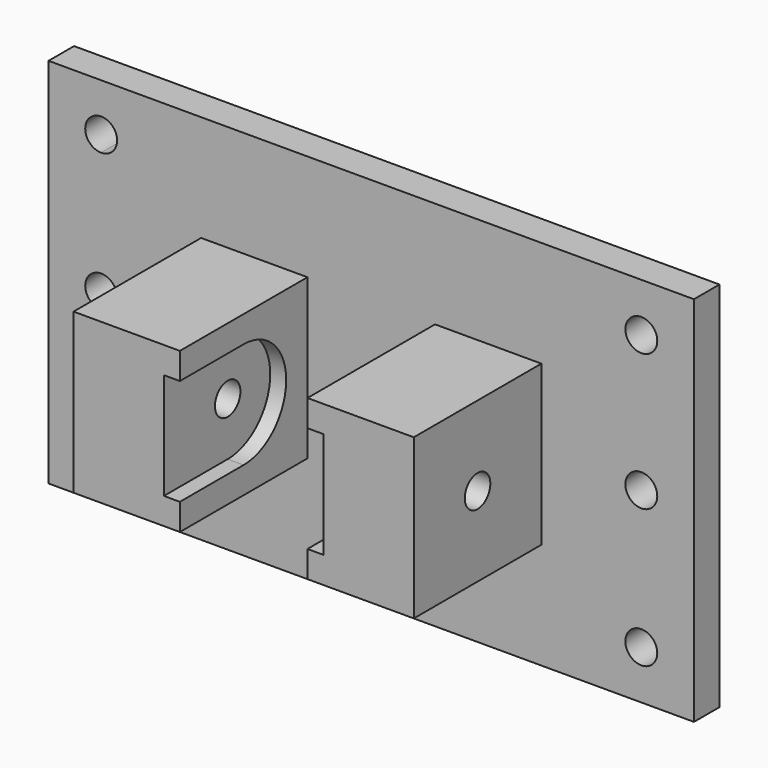
from build123d import *

# Parameters (mm, degrees)
F0_W      = 60
F0_H      = 30
F1_DEPTH  = 1.5
F2_W      = 10
F2_H      = 15
F3_DEPTH  = 15
F2_R      = 1.5
F4_DEPTH  = 3
F5_R      = 5
F5_R_2    = 1.5
F6_DEPTH  = 7.5
F7_DEPTH  = 30
F9_DEPTH  = 7.5
F10_W     = 0.3519237886
F10_H     = 30
F10_H_2   = 2.075
F10_H_3   = 27.925
F11_DEPTH = 3
F12_W     = 60.7038475773
F12_H     = 2.5
F13_DEPTH = 3


with BuildPart() as f1:
    # F0 (on Front) → F1 (new body, symmetric)
    with BuildSketch(Plane.XZ):
        Rectangle(F0_W, F0_H)
    extrude(amount=F1_DEPTH, both=True)

    # F2 (on face) → F3 (join)
    with BuildSketch(Plane.XZ.offset(1.5)):
        with Locations((-11, 0)):
            Rectangle(F2_W, F2_H)
        with Locations((11, 0)):
            Rectangle(F2_W, F2_H)
    extrude(amount=F3_DEPTH)

    # F2 (on face) → F4 (cut)
    with BuildSketch(Plane.XZ.offset(1.5)):
        with BuildLine():
            Line((-25.4019237886, 13), (-25.4019237886, 14.5))
            ThreePointArc((-25.4019237886, 14.5), (-26.9019237886, 13), (-25.4019237886, 11.5))
            Line((-25.4019237886, 11.5), (-25.4019237886, 12.925))
            Line((-25.4019237886, 12.925), (-25.4019237886, 13))
        make_face()
        with BuildLine():
            ThreePointArc((-23.9019237886, 13), (-24.3412636169, 14.0606601718), (-25.4019237886, 14.5))
            Line((-25.4019237886, 14.5), (-25.4019237886, 13))
            Line((-25.4019237886, 13), (-25.4019237886, 12.925))
            Line((-25.4019237886, 12.925), (-25.4019237886, 11.5))
            ThreePointArc((-25.4019237886, 11.5), (-24.3412636169, 11.9393398282), (-23.9019237886, 13))
        make_face()
        with BuildLine():
            ThreePointArc((-23.9019237886, -12.925), (-26.4625839604, -11.8643398282), (-25.4019237886, -14.425))
            ThreePointArc((-25.4019237886, -14.425), (-24.3412636169, -13.9856601718), (-23.9019237886, -12.925))
        make_face()
        with Locations((25.4019237886, 12.925)):
            Circle(F2_R)
        with Locations((25.4019237886, -12.925)):
            Circle(F2_R)
        with BuildLine():
            ThreePointArc((-23.9019237886, 0), (-24.3412636169, 1.0606601718), (-25.4019237886, 1.5))
            ThreePointArc((-25.4019237886, 1.5), (-26.4625839604, -1.0606601718), (-23.9019237886, 0))
        make_face()
        with Locations((25.4019237886, 0.075)):
            Circle(F2_R)
    extrude(amount=-F4_DEPTH, mode=Mode.SUBTRACT)

    # F5 (on Right) → F6 (cut, symmetric)
    with BuildSketch(Plane.YZ):
        with Locations((-9, 0)):
            Circle(F5_R)
        with Locations((-9, 0)):
            Circle(F5_R_2, mode=Mode.SUBTRACT)
    extrude(amount=F6_DEPTH, both=True, mode=Mode.SUBTRACT)

    # F7 (cut, symmetric): a face of the model
    f7_faces = [f1.faces().sort_by_distance(p)[0] for p in [
        (-6, -9, 0),
    ]]
    extrude(f7_faces, amount=F7_DEPTH, both=True, mode=Mode.SUBTRACT)

    # F8 (on Right) → F9 (cut, symmetric)
    with BuildSketch(Plane.YZ):
        Polygon((-9, 5), (-16.5, 5), (-16.5, -5), (-9, -5), (-9, 0), align=None)
    extrude(amount=F9_DEPTH, both=True, mode=Mode.SUBTRACT)

    # F10 (on face) → F11 (join)
    with BuildSketch(Plane(origin=(0, 1.5, 0), x_dir=(-1, 0, 0), z_dir=(0, 1, 0))):
        with Locations((30.1759618943, 0)):
            Rectangle(F10_W, F10_H)
        with Locations((-30.1759618943, -13.9625)):
            Rectangle(F10_W, F10_H_2)
        with Locations((-30.1759618943, 1.0375)):
            Rectangle(F10_W, F10_H_3)
    extrude(amount=-F11_DEPTH)

    # F12 (on face) → F13 (join)
    with BuildSketch(Plane(origin=(0, 1.5, 0), x_dir=(-1, 0, 0), z_dir=(0, 1, 0))):
        with Locations((0, 16.25)):
            Rectangle(F12_W, F12_H)
        with Locations((0, -16.25)):
            Rectangle(F12_W, F12_H)
    extrude(amount=-F13_DEPTH)


solid = f1.part
